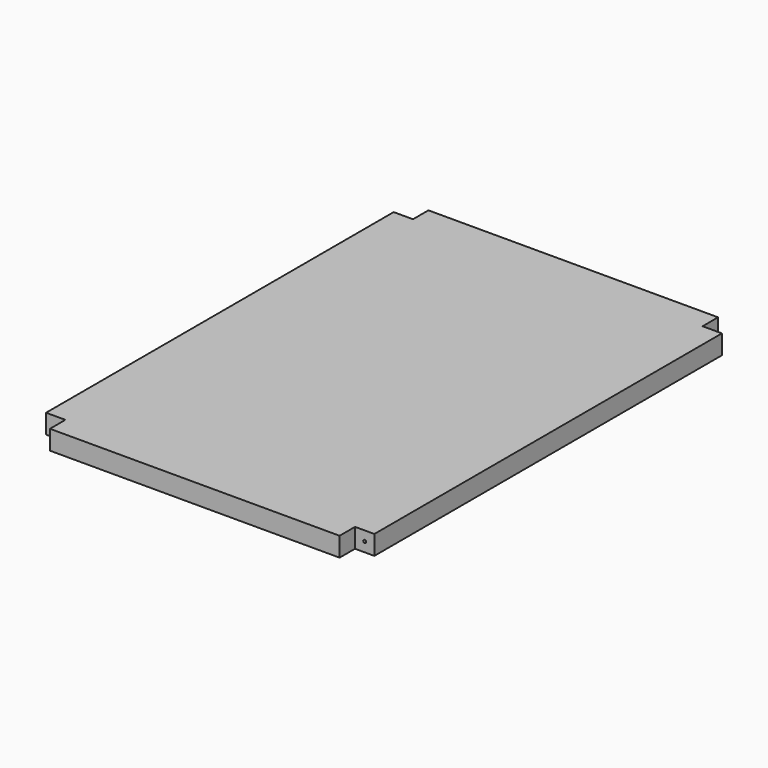
from build123d import *

# Parameters (mm, degrees)
F0_W     = 680
F0_H     = 980
F1_DEPTH = 40
F2_W     = 40
F2_H     = 40
F3_DEPTH = 40
F4_R     = 3
F5_DEPTH = 12
F6_R     = 3
F7_DEPTH = 12


with BuildPart() as f1:
    # F0 (on Top) → F1 (new body)
    with BuildSketch(Plane.XY):
        with Locations((-322.474923, 431.49489)):
            Rectangle(F0_W, F0_H)
    extrude(amount=F1_DEPTH)

    # F2 (on face) → F3 (cut)
    with BuildSketch(Plane.XY.offset(40)):
        with Locations((-642.474923, 901.49489)):
            Rectangle(F2_W, F2_H)
        with Locations((-2.474923, 901.49489)):
            Rectangle(F2_W, F2_H)
        with Locations((-642.474923, -38.50511)):
            Rectangle(F2_W, F2_H)
        with Locations((-2.474923, -38.50511)):
            Rectangle(F2_W, F2_H)
    extrude(amount=-F3_DEPTH, mode=Mode.SUBTRACT)

    # F4 (on face) → F5 (cut)
    with BuildSketch(Plane.XZ.offset(18.50511)):
        with Locations((-2.474923, 20)):
            Circle(F4_R)
    extrude(amount=-F5_DEPTH, mode=Mode.SUBTRACT)

    # F6 (on face) → F7 (cut)
    with BuildSketch(Plane(origin=(-622.474923, 0, 0), x_dir=(0, -1, 0), z_dir=(-1, 0, 0))):
        with Locations((38.50511, 20)):
            Circle(F6_R)
    extrude(amount=-F7_DEPTH, mode=Mode.SUBTRACT)


solid = f1.part
